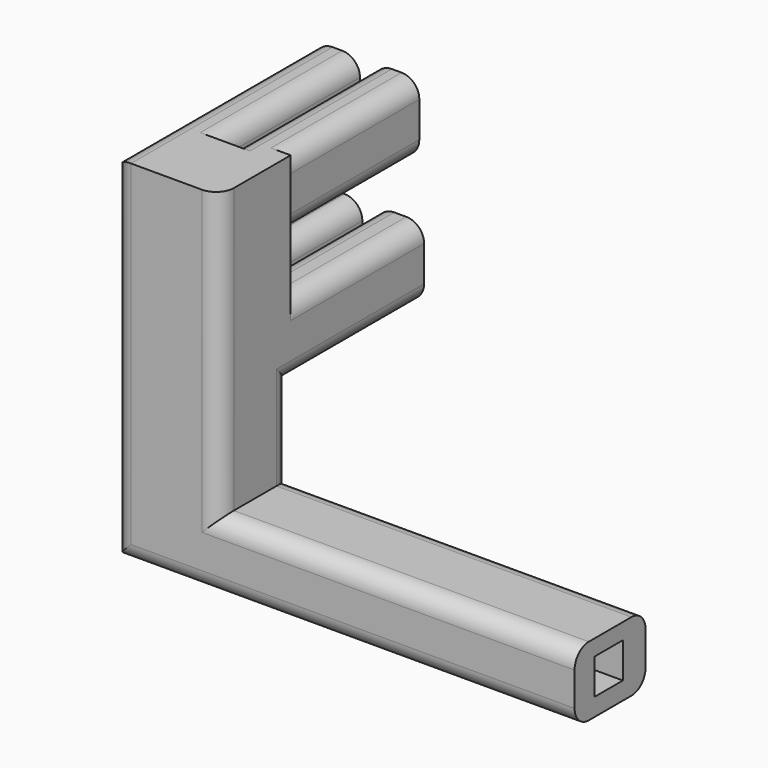
from build123d import *

# Parameters (mm, degrees)
F1_DEPTH      = 25
F2_W          = 29.447394362
F2_H          = 9.0000005439
F2_H_2        = 45.9999994561
F3_DEPTH      = 20
F4_W          = 4
F4_H          = 20
F5_DEPTH      = 50
F6_W          = 13.4000085294
F6_H          = 20
F6_W_2        = 12.5999914706
F7_DEPTH      = 47
F7_DEPTH_BACK = 10
F8_W          = 10
F8_H          = 10
F9_DEPTH      = 30
F10_R         = 5


with BuildPart() as f1:
    # F0 (on Front) → F1 (new body)
    with BuildSketch(Plane.XZ):
        Polygon((-89.7622789443, -41.3427457391), (40.2377210557, -41.3427457391), (40.2377210557, -41.1998914442), (40.2377210557, -21.8427457391), (-59.7622789443, -21.8427457391), (-59.7622789443, 58.1572542609), (-89.7622789443, 58.1572542609), align=None)
    extrude(amount=F1_DEPTH)

    # F2 (on face) → F3 (join)
    with BuildSketch(Plane.XY.offset(58.1572542609)):
        with Locations((-75.0385817632, -4.5000002719)):
            Rectangle(F2_W, F2_H)
        with Locations((-75.0385817632, 22.9999997281)):
            Rectangle(F2_W, F2_H_2)
    extrude(amount=-F3_DEPTH)

    # F4 (on face) → F5 (cut)
    with BuildSketch(Plane(origin=(0, 45.9999994561, 0), x_dir=(-1, 0, 0), z_dir=(0, 1, 0))):
        with Locations((75.038585484, 48.1572542609)):
            Rectangle(F4_W, F4_H)
    extrude(amount=-F5_DEPTH, mode=Mode.SUBTRACT)

    # F6 (on face) → F7 (join, two sides)
    with BuildSketch(Plane(origin=(0, 0, 0), x_dir=(-1, 0, 0), z_dir=(0, 1, 0))) as f7_sk:
        with Locations((66.462283209, 12.1572542609)):
            Rectangle(F6_W, F6_H)
        with Locations((83.462283209, 12.1572542609)):
            Rectangle(F6_W_2, F6_H)
    extrude(amount=F7_DEPTH)
    extrude(f7_sk.sketch, amount=-F7_DEPTH_BACK)

    # F8 (on face) → F9 (cut)
    with BuildSketch(Plane.YZ.offset(40.2377210557)):
        with Locations((-13, -31.3427457391)):
            Rectangle(F8_W, F8_H)
    extrude(amount=-F9_DEPTH, mode=Mode.SUBTRACT)

    # F10
    f10_edges = [f1.edges().sort_by_distance(p)[0] for p in [
        (-60.314885, 23, 58.157254),
        (-73.038585, 20.999999, 58.157254),
        (-60.314885, 23, 38.157254),
        (-73.038585, 23, 38.157254),
        (-77.038585, 23, 38.157254),
        (-89.762279, 23, 38.157254),
        (-89.762279, 10.5, 58.157254),
        (-77.038585, 20.999999, 58.157254),
        (-89.762279, 23.5, 2.157254),
        (-89.762279, 23.5, 22.157254),
        (-77.162287, 23.5, 22.157254),
        (-77.162287, 23.5, 2.157254),
        (-73.162287, 23.5, 2.157254),
        (-59.762279, 23.5, 2.157254),
        (-59.762279, 23.5, 22.157254),
        (-73.162287, 23.5, 22.157254),
        (-9.762279, 0, -21.842746),
        (-24.762279, 0, -41.342746),
        (-89.762279, 0, -19.592746),
        (-59.762279, 0, -9.842746),
        (-89.762279, -25, 8.407254),
        (-24.762279, -25, -41.342746),
        (-9.762279, -25, -21.842746),
        (-59.762279, -25, 18.157254),
    ]]
    fillet(f10_edges, radius=F10_R)


solid = f1.part
